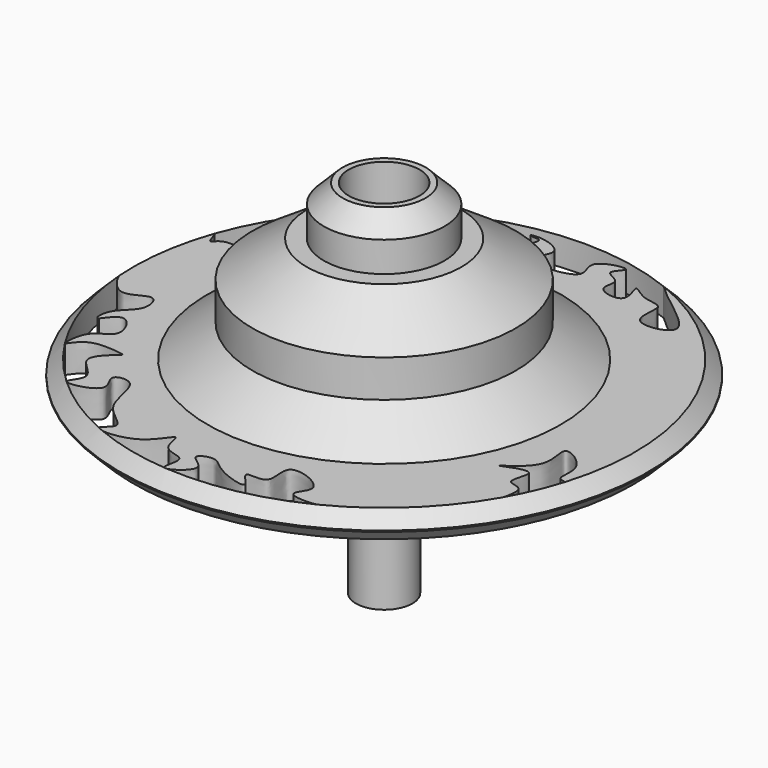
from build123d import *

# Parameters (mm, degrees)
F2_R      = 4.7752
F3_DEPTH  = 14.605
F4_R      = 4.7752
F5_DEPTH  = 14.605
F6_R      = 1.6002
F7_DEPTH  = 10.16
F8_SIZE   = 1.778
F9_SIZE   = 1.778
F10_SIZE  = 2.54
F12_DEPTH = 26.924


with BuildPart() as f1:
    # F0 (on Right) → F1 (revolve)
    with BuildSketch(Plane.YZ):
        Polygon((0, 48.710424453), (0, 0), (3.8068350405, 0), (3.8068350405, 15.5475651845), (13.7177221477, 23.989867419), (35.5909578502, 23.989867419), (35.5909578502, 27.724314481), (23.8036382943, 27.724314481), (17.7665371448, 32.1802683175), (17.7665371448, 37.2111834586), (10.4357721284, 42.0983582735), (8.1359250471, 42.0983582735), (8.1359250471, 48.710424453), align=None)
    revolve(axis=Axis((0, 0, 24.3552122265), (0, 0, -1)))

    # F2 (on face) → F3 (join)
    with BuildSketch(Plane.XY.offset(48.710424453)):
        Circle(F2_R)
    extrude(amount=-F3_DEPTH)

    # F4 (on face) → F5 (cut)
    with BuildSketch(Plane.XY.offset(48.710424453)):
        Circle(F4_R)
    extrude(amount=-F5_DEPTH, mode=Mode.SUBTRACT)

    # F6 (on face) → F7 (cut)
    with BuildSketch(Plane(origin=(0, 0, 0), x_dir=(1, 0, 0), z_dir=(0, 0, -1))):
        Circle(F6_R)
    extrude(amount=-F7_DEPTH, mode=Mode.SUBTRACT)

    # F8
    f8_edges = [f1.edges().sort_by_distance(p)[0] for p in [
        (0, -35.590958, 23.989867),
    ]]
    chamfer(f8_edges, length=F8_SIZE)

    # F9
    f9_edges = [f1.edges().sort_by_distance(p)[0] for p in [
        (0, -35.590958, 27.724314),
    ]]
    chamfer(f9_edges, length=F9_SIZE)

    # F10
    f10_edges = [f1.edges().sort_by_distance(p)[0] for p in [
        (0, -8.135925, 48.710424),
    ]]
    chamfer(f10_edges, length=F10_SIZE)

    # F11 (on face) → F12 (cut)
    with BuildSketch(Plane.XY.offset(27.724314481)):
        with BuildLine():
            ThreePointArc((-14.7611133461, 30.420809512), (-18.5014116921, 28.3021886782), (-21.9426884287, 25.7261451271))
            add(Edge.make_bspline(
                [(-14.7611133461, 30.420809512), (-15.0041830404, 30.0775963911), (-14.7227863245, 28.7912828608), (-16.1452554916, 20.7544343967), (-15.8956476326, 26.1295319765), (-23.2447040984, 25.2202852067), (-16.8269664369, 25.3707318194), (-20.6361841098, 18.6610335863), (-21.3056003901, 26.2002878484), (-21.9426884287, 25.7261451271)],
                knots=[0.4327408033, 0.4327408033, 0.4327408033, 0.4327408033, 0.475987354, 0.5733966928, 0.6318607947, 0.7125777593, 0.7771273274, 0.8482856696, 0.933547992, 0.933547992, 0.933547992, 0.933547992], degree=3))
        make_face()
        with BuildLine():
            add(Edge.make_bspline(
                [(-23.967307313, 23.851295536), (-25.2877222382, 21.2690451784), (-24.2991909439, 18.1084821999), (-26.3450729802, 16.9750387718), (-24.5456857905, 16.4657826423), (-26.4367676567, 15.7219924415), (-26.8837456083, 16.2587126645), (-27.9118288308, 15.9945785999)],
                knots=[0, 0, 0, 0, 0.3575689412, 0.5156911348, 0.6515389163, 0.802645632, 1, 1, 1, 1], degree=3))
            ThreePointArc((-23.967307313, 23.851295536), (-28.6347566108, 17.9824034106), (-31.8939312717, 11.2291258171))
            add(Edge.make_bspline(
                [(-27.9118288308, 15.9945785999), (-27.4226763777, 15.6753258626), (-26.3570741454, 14.9798637274), (-28.3990001862, 12.9277134825), (-22.9565107234, 8.9379244866), (-30.3000853655, 11.4672487764), (-31.2185289307, 8.7002915695), (-31.663316585, 11.189860115), (-31.8939312717, 11.2291258171)],
                knots=[0, 0, 0, 0, 0.0827344274, 0.1801307654, 0.3062669915, 0.4541915738, 0.5364112285, 0.6260614098, 0.6260614098, 0.6260614098, 0.6260614098], degree=3))
        make_face()
        with BuildLine():
            add(Edge.make_bspline(
                [(-33.7247202833, -2.441180123), (-33.4665545291, -3.2776614604), (-31.1784077923, -6.7514354087), (-27.6543628257, -2.9038280587), (-26.4480809031, -7.1227553391), (-29.6443144587, -8.7807296685), (-29.8116694596, -11.604581508), (-29.2870247833, -11.4293553506), (-29.282419011, -11.4172101021)],
                knots=[0.4801792867, 0.4801792867, 0.4801792867, 0.4801792867, 0.5711607113, 0.6787105679, 0.7673796097, 0.8748033377, 0.9569441194, 0.9842404947, 0.9842404947, 0.9842404947, 0.9842404947], degree=3))
            ThreePointArc((-33.7247202833, -2.441180123), (-32.1225195489, -10.5574550159), (-28.5974068472, -18.0417416066))
            add(Edge.make_bspline(
                [(-29.282419011, -11.4172101021), (-28.5914162174, -10.4941645693), (-27.1255281453, -8.5370154434), (-24.4837331705, -13.508922228), (-28.58229055, -14.0746626537), (-28.6985794686, -17.6468550564), (-28.5974068472, -18.0417416066)],
                knots=[0, 0, 0, 0, 0.2207447753, 0.4673408872, 0.7041071226, 0.9483622024, 0.9483622024, 0.9483622024, 0.9483622024], degree=3))
        make_face()
        with BuildLine():
            add(Edge.make_bspline(
                [(-22.9368966173, -24.8438099362), (-22.4561019158, -25.2270645076), (-17.3269864116, -24.0410254507), (-20.9310435786, -20.7539046468), (-16.3760277474, -20.0065861843), (-16.9101090241, -26.8041451457), (-11.1384837588, -29.1653474382), (-13.7982222101, -30.5445144234), (-13.7631664304, -30.8851318338)],
                knots=[0.1238077106, 0.1238077106, 0.1238077106, 0.1238077106, 0.168184518, 0.2041745596, 0.2365804372, 0.2908282816, 0.3378802808, 0.3682120692, 0.3682120692, 0.3682120692, 0.3682120692], degree=3))
            ThreePointArc((-22.9368966173, -24.8438099362), (-18.5969903343, -28.239477139), (-13.7631664304, -30.8851318338))
        make_face()
        with BuildLine():
            add(Edge.make_bspline(
                [(-2.3304983215, -33.7325495057), (-1.5480570486, -33.5826198442), (1.5398160221, -31.274528287), (-2.8560763087, -29.7832017017), (0.5461995393, -28.3030693326), (1.7052433542, -30.4972593108), (8.2059220858, -32.553254562), (3.5025417621, -28.7244054349), (8.8834906805, -30.2238564985), (6.1432776157, -23.9903371014), (14.3134073025, -27.1285576259), (10.0641886559, -30.3630281795), (13.9078778224, -30.4972469335), (15.1243435385, -30.2418642136)],
                knots=[0.5783969698, 0.5783969698, 0.5783969698, 0.5783969698, 0.6135734105, 0.6490704352, 0.6795567196, 0.7173051553, 0.7628622673, 0.7968636246, 0.8320052535, 0.8733963397, 0.9225793579, 0.9577059865, 1, 1, 1, 1], degree=3))
            ThreePointArc((-2.3304983215, -33.7325495057), (6.6307495663, -33.1564364607), (15.1243435385, -30.2418642136))
        make_face()
        with BuildLine():
            ThreePointArc((29.3528743316, -16.7846622562), (31.0344878746, -13.4229907599), (32.3325891935, -9.8954431241))
            add(Edge.make_bspline(
                [(29.3528743316, -16.7846622562), (29.6015573292, -16.0884866811), (30.0890758749, -13.3891264523), (26.6912305652, -14.1172638604), (29.6514971434, -9.0108557505), (21.5876225528, -12.7574461272), (29.5310742476, -8.8072499911), (26.4489080436, -2.7691284369), (32.1368308764, -6.2157003161), (30.8315096075, -9.6820489425), (31.9349351147, -9.8380969126), (32.3325891935, -9.8954431241)],
                knots=[0.4367666828, 0.4367666828, 0.4367666828, 0.4367666828, 0.4829658642, 0.5352740588, 0.597269289, 0.6692094495, 0.7489733947, 0.8241097914, 0.8965937515, 0.9615772219, 1, 1, 1, 1], degree=3))
        make_face()
        with BuildLine():
            ThreePointArc((12.5893531367, 31.3819104928), (0.2015127839, 33.8123573739), (-12.214416229, 31.5297344544))
            add(Edge.make_bspline(
                [(-5.7712290436, 31.8460650742), (-5.1629662182, 31.372779293), (-2.917898426, 32.5662206403), (-7.7005198967, 23.932070579), (-9.7556845403, 29.4360125571), (-14.6531135005, 27.7798069889), (-11.462542971, 31.2448203212), (-12.0698446715, 31.5190292698), (-12.214416229, 31.5297344544)],
                knots=[0, 0, 0, 0, 0.0502933114, 0.1471843204, 0.2224182599, 0.2887850533, 0.3560831388, 0.369586039, 0.369586039, 0.369586039, 0.369586039], degree=3))
            add(Edge.make_bspline(
                [(12.5893531367, 31.3819104928), (15.1020959491, 28.860235726), (23.5240887335, 24.1503848427), (13.8396394664, 22.4167586601), (16.0027516413, 28.2192825354), (12.6105842367, 27.5551047603), (9.6993231562, 30.4286740673), (12.2661585831, 25.6076566018), (6.798760338, 26.5346373743), (8.7821948679, 29.4724765244), (5.0569982829, 30.1193077867), (8.6359522162, 32.7582585351), (1.9374922147, 31.2765578004), (6.0966048394, 27.0131971626), (-4.4816602782, 26.4749711197), (0.0461677848, 30.6185920911), (-4.3194295906, 32.2034799645), (-5.5433080738, 31.8305897969), (-5.7712290436, 31.8460650742)],
                knots=[0, 0, 0, 0, 0.1088984848, 0.1795379518, 0.2452117978, 0.3007317066, 0.3526391712, 0.4081322666, 0.4677522604, 0.5183468642, 0.5685757522, 0.6141347529, 0.6790594776, 0.7374353685, 0.822225898, 0.8797042301, 0.943150735, 0.9848647824, 0.9848647824, 0.9848647824, 0.9848647824], degree=3))
        make_face()
        with BuildLine():
            add(Edge.make_bspline(
                [(-12.9439098384, -31.2373385018), (-11.899972638, -31.3432425422), (-7.7333388608, -30.7896750337), (-5.7773319001, -25.8402054458), (-5.8177438948, -30.8817555858), (-1.5700289115, -30.3454829545), (-3.1029365482, -33.4503729186), (-2.6685630338, -33.7074901159)],
                knots=[0.3841735001, 0.3841735001, 0.3841735001, 0.3841735001, 0.4186032948, 0.4629301862, 0.4990709151, 0.5367217075, 0.5720064005, 0.5720064005, 0.5720064005, 0.5720064005], degree=3))
            ThreePointArc((-12.9439098384, -31.2373385018), (-7.9033372411, -32.876334635), (-2.6685630338, -33.7074901159))
        make_face()
        with BuildLine():
            add(Edge.make_bspline(
                [(-28.5191412567, -18.1652057671), (-27.9188495332, -17.2843337206), (-26.6659918723, -15.4458821004), (-22.1807688115, -16.2483230442), (-22.1301149577, -16.2998046726)],
                knots=[0, 0, 0, 0, 0.4317519096, 0.9011013585, 0.9011013585, 0.9011013585, 0.9011013585], degree=3))
            ThreePointArc((-28.5191412567, -18.1652057671), (-25.9545743121, -21.672014001), (-22.9615300695, -24.8210446083))
            add(Edge.make_bspline(
                [(-22.1354928552, -16.3045689291), (-23.414033693, -17.4372250781), (-25.9501154688, -19.6883770231), (-20.6705455704, -22.3454374805), (-23.2603173245, -24.4977343339), (-22.9615300695, -24.8210446083)],
                knots=[6.31631e-05, 6.31631e-05, 6.31631e-05, 6.31631e-05, 0.0451120181, 0.0890218084, 0.1229718712, 0.1229718712, 0.1229718712, 0.1229718712], degree=3))
            add(Edge.make_bspline(
                [(-22.1301149577, -16.2998046726), (-22.1319075759, -16.3013927435), (-22.1337002099, -16.3029808291), (-22.1354928552, -16.3045689291)],
                knots=[0, 0, 0, 0, 6.31631e-05, 6.31631e-05, 6.31631e-05, 6.31631e-05], degree=3))
        make_face()
    extrude(amount=-F12_DEPTH, mode=Mode.SUBTRACT)


solid = f1.part
